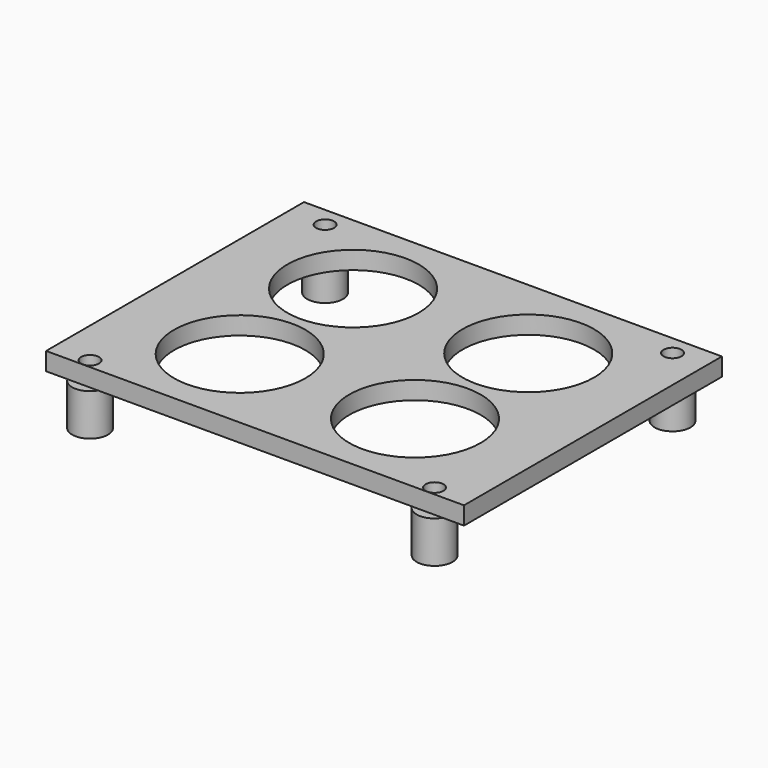
from build123d import *

# Parameters (mm, degrees)
SKETCH002_R      = 1.5
SKETCH002_R_2    = 11
EXTRUDE002_DEPTH = 10
SKETCH001_R      = 3
EXTRUDE001_DEPTH = 7
SKETCH_W         = 70
SKETCH_H         = 54
EXTRUDE_DEPTH    = 3


with BuildPart() as extrude002:
    # Sketch002 (on Face5 of Extrude) → Extrude002 (new body, symmetric)
    with BuildSketch(Plane(origin=(0, 0, 0), x_dir=(1, 0, 0), z_dir=(0, 0, -1))):
        with Locations((-28.85, 25.473994)):
            Circle(SKETCH002_R)
        with Locations((28.85, 25.473994)):
            Circle(SKETCH002_R)
        with Locations((-28.85, -23.726006)):
            Circle(SKETCH002_R)
        with Locations((29.35, -23.726006)):
            Circle(SKETCH002_R)
        with Locations((-14.675, 11.863003)):
            Circle(SKETCH002_R_2)
        with Locations((-14.675, -11.863003)):
            Circle(SKETCH002_R_2)
        with Locations((14.675, 11.863003)):
            Circle(SKETCH002_R_2)
        with Locations((14.675, -11.863003)):
            Circle(SKETCH002_R_2)
    extrude(amount=EXTRUDE002_DEPTH, both=True)


with BuildPart() as extrude001:
    # Sketch001 (on Extrude) → Extrude001 (new body)
    with BuildSketch(Plane.XY):
        with Locations((-28.85, 23.726006)):
            Circle(SKETCH001_R)
        with Locations((29.35, 23.726006)):
            Circle(SKETCH001_R)
        with Locations((-28.85, -25.473994)):
            Circle(SKETCH001_R)
        with Locations((28.85, -25.473994)):
            Circle(SKETCH001_R)
    extrude(amount=-EXTRUDE001_DEPTH)


with BuildPart() as cut:
    # Sketch → Extrude (new body)
    with BuildSketch(Plane.XY):
        Rectangle(SKETCH_W, SKETCH_H)
    extrude(amount=EXTRUDE_DEPTH)

    # Fusion: union Extrude001
    add(extrude001.part)

    # Cut: cut Extrude002
    add(extrude002.part, mode=Mode.SUBTRACT)


solid = cut.part
